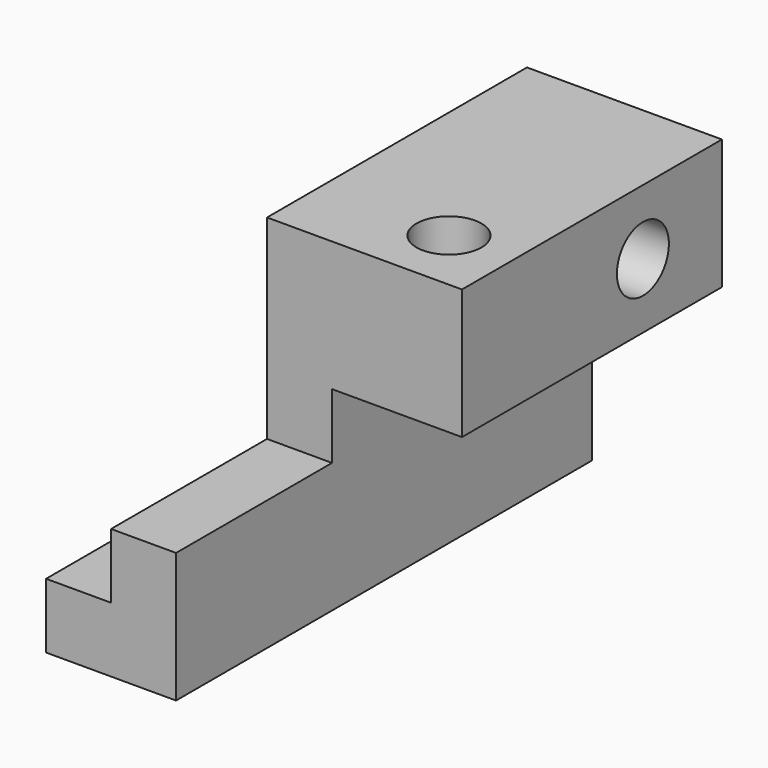
from build123d import *

# Parameters (mm, degrees)
F1_DEPTH = 50.8
F3_DEPTH = 31.75
F4_R     = 3.175
F5_DEPTH = 25.4
F6_R     = 3.175
F7_DEPTH = 25.4


with BuildPart() as f1:
    # F0 (on Front) → F1 (new body)
    with BuildSketch(Plane.XZ):
        Polygon((0, -12.7), (0, 0), (-6.35, 0), (-6.35, -6.35), (-12.7, -6.35), (-12.7, -12.7), align=None)
    extrude(amount=F1_DEPTH)

    # F2 (on Front) → F3 (join)
    with BuildSketch(Plane.XZ):
        Polygon((-6.35, 19.05), (-6.35, 0), (0, 0), (0, 6.35), (12.7, 6.35), (12.7, 19.05), align=None)
    extrude(amount=F3_DEPTH)

    # F4 (on Right) → F5 (cut, symmetric)
    with BuildSketch(Plane.YZ):
        with Locations((-9.652, 12.7)):
            Circle(F4_R)
    extrude(amount=F5_DEPTH, both=True, mode=Mode.SUBTRACT)

    # F6 (on Top) → F7 (cut, symmetric)
    with BuildSketch(Plane.XY):
        with Locations((6.35, -25.4)):
            Circle(F6_R)
    extrude(amount=F7_DEPTH, both=True, mode=Mode.SUBTRACT)


solid = f1.part
